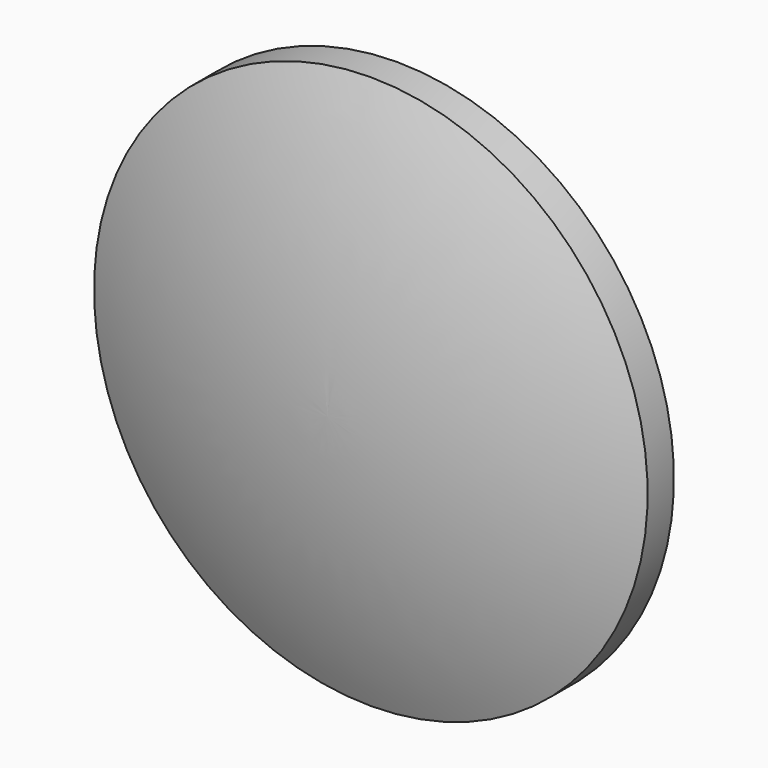
from build123d import *


with BuildPart() as f1:
    # F0 (on Right) → F1 (revolve)
    with BuildSketch(Plane.YZ):
        with BuildLine():
            Line((1.1, 18.5), (-1.1, 18.5))
            ThreePointArc((-1.1, 18.5), (-3.791638, 9.423508), (-4.7, 0))
            Line((-4.7, 0), (5.7, 0))
            ThreePointArc((5.7, 0), (4.532754, 9.531658), (1.1, 18.5))
        make_face()
    revolve(axis=Axis((0, 0.5, 0), (0, 1, 0)))


solid = f1.part
